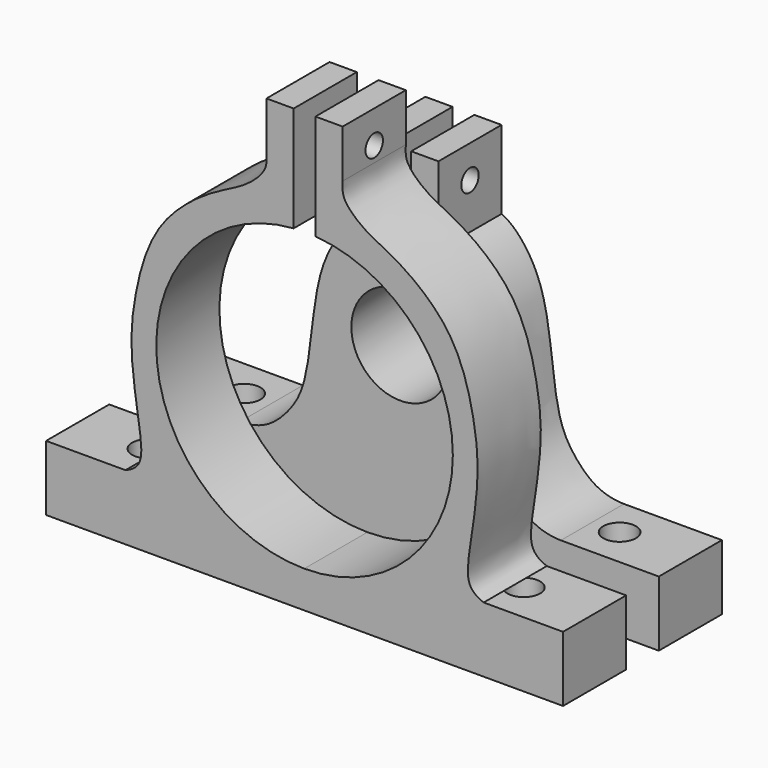
from build123d import *

# Parameters (mm, degrees)
F2_DEPTH  = 14.5
F3_R      = 3
F4_DEPTH  = 25
F5_W      = 4
F5_H      = 14.5
F6_DEPTH  = 25
F7_R      = 2
F8_DEPTH  = 25
F11_DEPTH = 14.5
F12_R     = 3
F13_DEPTH = 25
F14_R     = 2
F15_DEPTH = 25


with BuildPart() as f2:
    # F1 (on face) → F2 (new body)
    with BuildSketch(Plane.XZ):
        with BuildLine():
            Line((-202.5680201617, 65.3251916903), (-202.5680201617, 88.3251916903))
            Line((-202.5680201617, 88.3251916903), (-209.5680201617, 88.3251916903))
            Line((-209.5680201617, 88.3251916903), (-209.5680201617, 73.9349819805))
            add(Edge.make_bspline(
                [(-209.5680201617, 73.9349819805), (-211.7439716774, 73.0181878643), (-216.2726052613, 67.7985303627), (-218.3331884568, 58.75580514), (-219.0857934458, 50.5969995569), (-220.199689377, 44.137135842), (-222.0891199342, 39.9480032137), (-226.803489677, 34.7602491031), (-231.0267011323, 34.3251916903), (-232.0680201617, 34.3251916903)],
                knots=[0, 0, 0, 0, 0.1591101706, 0.3270353536, 0.4840931463, 0.6211344746, 0.7377657249, 0.8804923771, 1, 1, 1, 1], degree=3))
            Line((-232.0680201617, 34.3251916903), (-250.0680201617, 34.3251916903))
            Line((-250.0680201617, 34.3251916903), (-250.0680201617, 22.3251916903))
            Line((-250.0680201617, 22.3251916903), (-202.5680201617, 22.3251916903))
            Line((-202.5680201617, 22.3251916903), (-202.5680201617, 47.3251916903))
            ThreePointArc((-202.5680201617, 47.3251916903), (-211.5680201617, 56.3251916903), (-202.5680201617, 65.3251916903))
        make_face()
        with BuildLine():
            Line((-195.5680201617, 88.3251916903), (-202.5680201617, 88.3251916903))
            Line((-202.5680201617, 88.3251916903), (-202.5680201617, 65.3251916903))
            ThreePointArc((-202.5680201617, 65.3251916903), (-193.5680201617, 56.3251916903), (-202.5680201617, 47.3251916903))
            Line((-202.5680201617, 47.3251916903), (-202.5680201617, 22.3251916903))
            Line((-202.5680201617, 22.3251916903), (-155.0680201617, 22.3251916903))
            Line((-155.0680201617, 22.3251916903), (-155.0680201617, 34.3251916903))
            Line((-155.0680201617, 34.3251916903), (-173.0680201617, 34.3251916903))
            add(Edge.make_bspline(
                [(-195.5680201617, 73.9349819805), (-193.392068646, 73.0181878643), (-188.863435062, 67.7985303627), (-186.8028518665, 58.75580514), (-186.0502468775, 50.5969995569), (-184.9363509464, 44.137135842), (-183.0469203892, 39.9480032137), (-178.3325506464, 34.7602491031), (-174.109339191, 34.3251916903), (-173.0680201617, 34.3251916903)],
                knots=[0, 0, 0, 0, 0.1591101706, 0.3270353536, 0.4840931463, 0.6211344746, 0.7377657249, 0.8804923771, 1, 1, 1, 1], degree=3))
            Line((-195.5680201617, 73.9349819805), (-195.5680201617, 88.3251916903))
        make_face()
    extrude(amount=F2_DEPTH)

    # F3 (on face) → F4 (cut)
    with BuildSketch(Plane.XY.offset(34.3251916903)):
        with Locations((-237.0680201617, -7.25)):
            Circle(F3_R)
        with Locations((-168.0680201617, -7.25)):
            Circle(F3_R)
    extrude(amount=-F4_DEPTH, mode=Mode.SUBTRACT)

    # F5 (on face) → F6 (cut)
    with BuildSketch(Plane.XY.offset(88.3251916903)):
        with Locations((-202.5680201617, -7.25)):
            Rectangle(F5_W, F5_H)
    extrude(amount=-F6_DEPTH, mode=Mode.SUBTRACT)

    # F7 (on face) → F8 (cut)
    with BuildSketch(Plane.YZ.offset(-195.5680201617)):
        with Locations((-7.25, 82.3251916903)):
            Circle(F7_R)
    extrude(amount=-F8_DEPTH, mode=Mode.SUBTRACT)


with BuildPart() as f11:
    # F10 (on offset) → F11 (new body)
    with BuildSketch(Plane.XZ.offset(22)):
        with BuildLine():
            Line((-202.6266263647, 22.3251916903), (-202.6266263647, 29.0752547122))
            ThreePointArc((-202.6266263647, 29.0752547122), (-229.8007008876, 55.3538006871), (-204.5680201617, 83.5016980883))
            Line((-204.5680201617, 83.5016980883), (-204.5680201617, 102.890573442))
            Line((-204.5680201617, 102.890573442), (-209.5680201617, 102.890573442))
            Line((-209.5680201617, 102.890573442), (-209.5680201617, 94.0735563636))
            add(Edge.make_bspline(
                [(-235.4835533467, 34.3251916903), (-234.2076045099, 34.8032106649), (-232.0875761704, 36.3645413181), (-233.0333190955, 43.0886671998), (-234.8395213207, 54.3273465748), (-233.7960622807, 63.9566738497), (-230.2921019868, 76.7310885142), (-219.6514869865, 84.8193184868), (-213.4870202974, 87.2101328255), (-209.205947769, 91.3388803607), (-209.6027707631, 93.2862840105), (-209.5680201617, 94.0735563636)],
                knots=[0, 0, 0, 0, 0.0754379169, 0.1766112941, 0.3150596134, 0.4432663677, 0.5896926426, 0.7356900989, 0.8426999539, 0.935912944, 1, 1, 1, 1], degree=3))
            Line((-235.4835533467, 34.3251916903), (-250.0680201617, 34.3251916903))
            Line((-250.0680201617, 34.3251916903), (-250.0680201617, 22.3251916903))
            Line((-250.0680201617, 22.3251916903), (-202.6266263647, 22.3251916903))
        make_face()
        with BuildLine():
            ThreePointArc((-200.5680201617, 83.5016980883), (-182.6047726804, 74.8732711057), (-175.3180201617, 56.3251916903))
            ThreePointArc((-175.3180201617, 56.3251916903), (-183.3200919489, 37.03582261), (-202.6266263647, 29.0752547122))
            Line((-202.6266263647, 29.0752547122), (-202.6266263647, 22.3251916903))
            Line((-202.6266263647, 22.3251916903), (-202.5094139586, 22.3251916903))
            Line((-202.5094139586, 22.3251916903), (-155.0680201617, 22.3251916903))
            Line((-155.0680201617, 22.3251916903), (-155.0680201617, 34.3251916903))
            Line((-155.0680201617, 34.3251916903), (-169.6524869767, 34.3251916903))
            add(Edge.make_bspline(
                [(-169.6524869767, 34.3251916903), (-170.9284358134, 34.8032106649), (-173.048464153, 36.3645413181), (-172.1027212278, 43.0886671998), (-170.2965190026, 54.3273465748), (-171.3399780427, 63.9566738497), (-174.8439383366, 76.7310885142), (-185.4845533369, 84.8193184868), (-191.649020026, 87.2101328255), (-195.9300925543, 91.3388803607), (-195.5332695603, 93.2862840105), (-195.5680201617, 94.0735563636)],
                knots=[0, 0, 0, 0, 0.0754379169, 0.1766112941, 0.3150596134, 0.4432663677, 0.5896926426, 0.7356900989, 0.8426999539, 0.935912944, 1, 1, 1, 1], degree=3))
            Line((-195.5680201617, 94.0735563636), (-195.5680201617, 102.890573442))
            Line((-195.5680201617, 102.890573442), (-200.5680201617, 102.890573442))
            Line((-200.5680201617, 102.890573442), (-200.5680201617, 83.5016980883))
        make_face()
    extrude(amount=F11_DEPTH)

    # F12 (on face) → F13 (cut)
    with BuildSketch(Plane.XY.offset(34.3251916903)):
        with Locations((-237.0680201617, -29.25)):
            Circle(F12_R)
        with Locations((-168.0680201617, -29.25)):
            Circle(F12_R)
    extrude(amount=-F13_DEPTH, mode=Mode.SUBTRACT)

    # F14 (on face) → F15 (cut)
    with BuildSketch(Plane(origin=(-209.5680201617, 0, 0), x_dir=(0, -1, 0), z_dir=(-1, 0, 0))):
        with Locations((29.25, 96.890573442)):
            Circle(F14_R)
    extrude(amount=-F15_DEPTH, mode=Mode.SUBTRACT)


solid = Compound([f2.part, f11.part])
